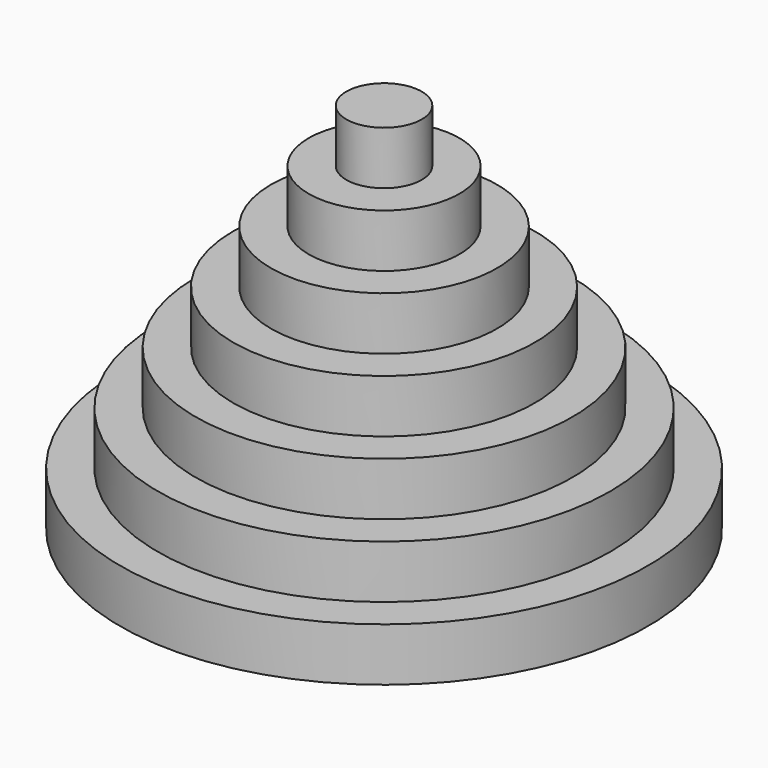
from build123d import *


with BuildPart() as f1:
    # F0 (on Front) → F1 (revolve)
    with BuildSketch(Plane.XZ):
        Polygon((-85, 0), (0, 0), (0, 120), (-12.142857, 120), (-12.142857, 102.857143), (-24.285714, 102.857143), (-24.285714, 85.714286), (-36.428571, 85.714286), (-36.428571, 68.571429), (-48.571429, 68.571429), (-48.571429, 51.428571), (-60.714286, 51.428571), (-60.714286, 34.285714), (-72.857143, 34.285714), (-72.857143, 17.142857), (-85, 17.142857), align=None)
    revolve(axis=Axis((0, 0, 60), (0, 0, 1)))


solid = f1.part
